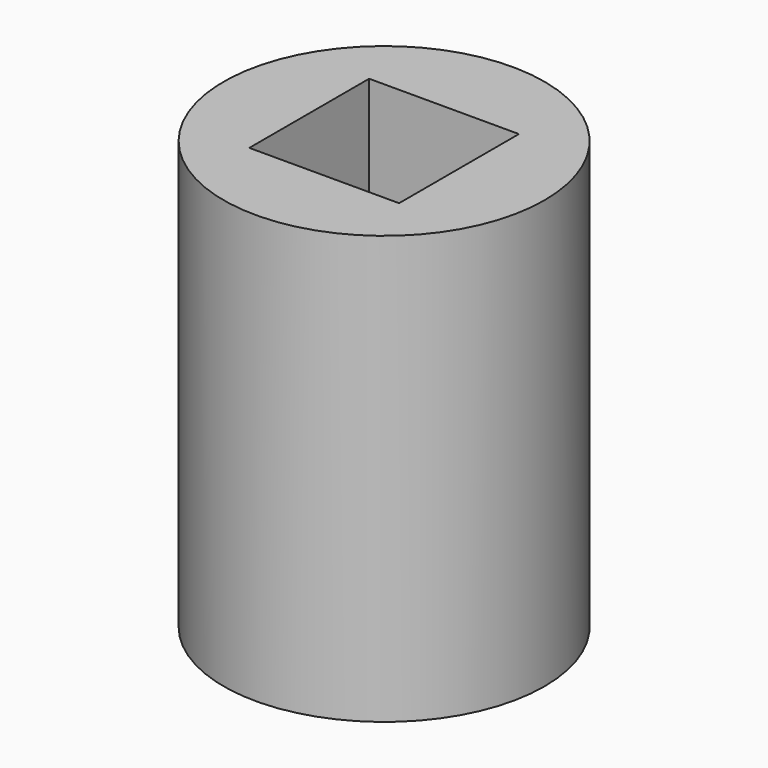
from build123d import *

# Parameters (mm, degrees)
F0_R     = 7.5
F0_W     = 5
F0_H     = 3
F1_DEPTH = 20
F2_W     = 7
F2_H     = 7
F2_W_2   = 5
F2_H_2   = 3
F3_DEPTH = 15


with BuildPart() as f1:
    # F0 (on Top) → F1 (new body)
    with BuildSketch(Plane.XY):
        Circle(F0_R)
        Rectangle(F0_W, F0_H, mode=Mode.SUBTRACT)
    extrude(amount=F1_DEPTH)

    # F2 (on face) → F3 (cut)
    with BuildSketch(Plane.XY.offset(20)):
        Rectangle(F2_W, F2_H)
        Rectangle(F2_W_2, F2_H_2, mode=Mode.SUBTRACT)
    extrude(amount=-F3_DEPTH, mode=Mode.SUBTRACT)


solid = f1.part
